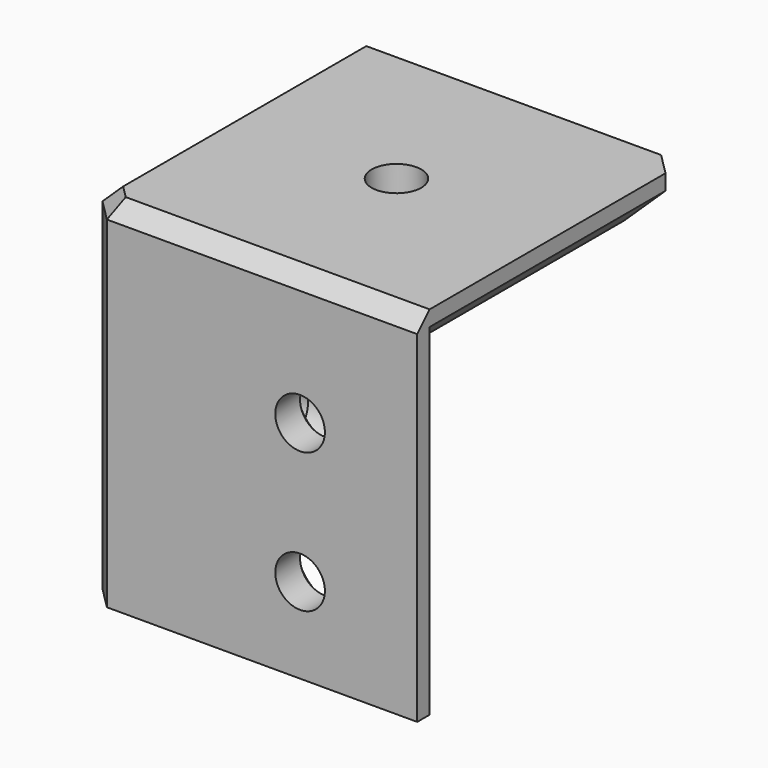
from build123d import *

# Parameters (mm, degrees)
PAD024_DEPTH    = 20
PAD025_DEPTH    = 3
CHAMFER015_SIZE = 2
CHAMFER016_SIZE = 1
SKETCH047_R     = 1.6
POCKET015_DEPTH = 5
CHAMFER017_SIZE = 1
SKETCH048_R     = 1.6
POCKET016_DEPTH = 3
CHAMFER018_SIZE = 1
SKETCH049_R     = 1.6
POCKET017_DEPTH = 3.001
CHAMFER019_SIZE = 1


with BuildPart() as part:
    # Sketch045 → Pad024 (new body)
    with BuildSketch(Plane.XY):
        Polygon((19.414214, 3), (8.313708, 3), (3, 8.313708), (3, 19.414214), (1, 21.414214), (0, 21.414214), (0, 1.414214), (1.414214, 0), (21.414214, 0), (21.414214, 1), align=None)
    extrude(amount=-PAD024_DEPTH)

    # Sketch046 → Pad025 (join)
    with BuildSketch(Plane.XY):
        Polygon((0, 21.414214), (20, 21.414214), (21.414214, 20), (21.414214, 0), (1.414214, 0), (0, 1.414214), align=None)
    extrude(amount=PAD025_DEPTH)

    # Chamfer015
    chamfer015_edges = [part.edges().sort_by_distance(p)[0] for p in [
        (21.414214, 10.5, 0),
        (20.707107, 20.707107, 0),
        (10.5, 21.414214, 0),
    ]]
    chamfer(chamfer015_edges, length=CHAMFER015_SIZE)

    # Chamfer016
    chamfer016_edges = [part.edges().sort_by_distance(p)[0] for p in [
        (0.707107, 0.707107, 3),
        (11.414214, 0, 3),
        (0, 11.414214, 3),
    ]]
    chamfer(chamfer016_edges, length=CHAMFER016_SIZE)

    # Sketch047 (on Face15 of Chamfer016) → Pocket015 (cut)
    with BuildSketch(Plane(origin=(0, 0, 0), x_dir=(1, 0, 0), z_dir=(0, 0, -1))):
        with Locations((11.207107, -11.085786)):
            Circle(SKETCH047_R)
    extrude(amount=-POCKET015_DEPTH, mode=Mode.SUBTRACT)

    # Chamfer017
    chamfer017_edges = [part.edges().sort_by_distance(p)[0] for p in [
        (9.607107, 11.085786, 0),
    ]]
    chamfer(chamfer017_edges, length=CHAMFER017_SIZE)

    # Sketch048 (on Face16 of Chamfer017) → Pocket016 (cut)
    with BuildSketch(Plane.YZ.offset(3)):
        with Locations((13.863961, -14.5)):
            Circle(SKETCH048_R)
        with Locations((13.863961, -5.5)):
            Circle(SKETCH048_R)
    extrude(amount=-POCKET016_DEPTH, mode=Mode.SUBTRACT)

    # Chamfer018
    chamfer018_edges = [part.edges().sort_by_distance(p)[0] for p in [
        (3, 12.263961, -14.5),
        (3, 12.263961, -5.5),
    ]]
    chamfer(chamfer018_edges, length=CHAMFER018_SIZE)

    # Sketch049 (on Face9 of Chamfer018) → Pocket017 (cut, through all)
    with BuildSketch(Plane(origin=(0, 3, 0), x_dir=(-1, 0, 0), z_dir=(0, 1, 0))):
        with Locations((-13.863961, -5.5)):
            Circle(SKETCH049_R)
        with Locations((-13.863961, -14.5)):
            Circle(SKETCH049_R)
    extrude(amount=-POCKET017_DEPTH, mode=Mode.SUBTRACT)

    # Chamfer019
    chamfer019_edges = [part.edges().sort_by_distance(p)[0] for p in [
        (15.463961, 3, -5.5),
        (15.463961, 3, -14.5),
    ]]
    chamfer(chamfer019_edges, length=CHAMFER019_SIZE)


with BuildPart() as part_1:
    # Body046 placement: moved
    add(part.part.moved(Location((0, 0, -18))))


solid = part_1.part
